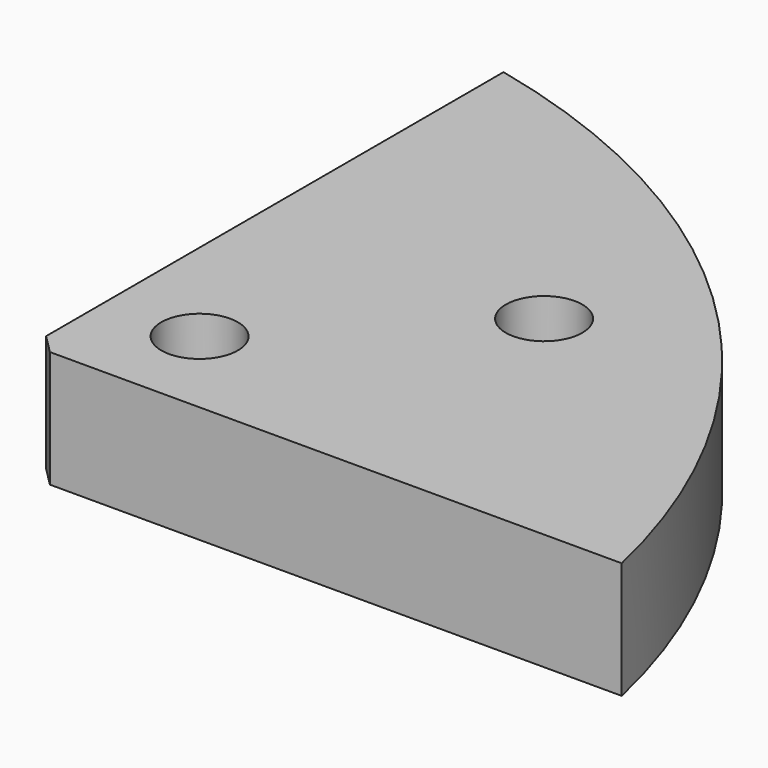
from build123d import *

# Parameters (mm, degrees)
F1_DEPTH = 6.1
F3_D     = 4
F4_SIZE  = 1


with BuildPart() as f1:
    # F0 (on Top) → F1 (new body)
    with BuildSketch(Plane.XY):
        with BuildLine():
            Line((9.1, 9.1), (39.977369, 9.1))
            ThreePointArc((39.977369, 9.1), (28.991378, 28.991378), (9.1, 39.977369))
            Line((9.1, 39.977369), (9.1, 9.1))
        make_face()
    extrude(amount=F1_DEPTH)

    # F3 (through all)
    with Locations(Plane.XY.offset(6.1)):
        with Locations((14, 14), (24, 24)):
            Hole(F3_D / 2)

    # F4
    f4_edges = [f1.edges().sort_by_distance(p)[0] for p in [
        (9.1, 9.1, 3.05),
    ]]
    chamfer(f4_edges, length=F4_SIZE)


solid = f1.part
